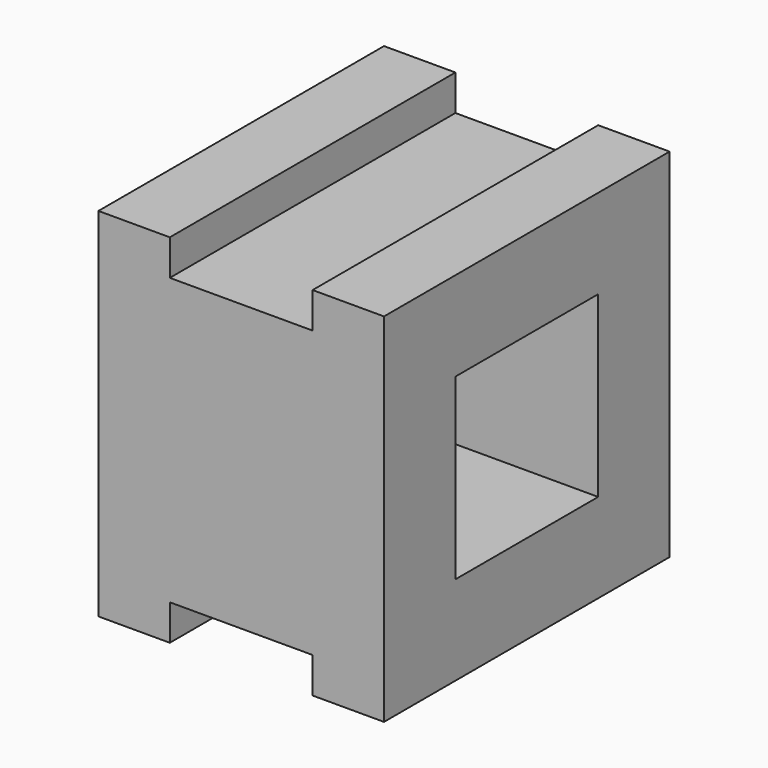
from build123d import *

# Parameters (mm, degrees)
F0_W          = 40
F0_H          = 50
F1_DEPTH      = 50
F2_W          = 25
F2_H          = 25
F3_DEPTH      = 139.9
F3_DEPTH_BACK = 82.6
F5_W          = 20
F5_H          = 50
F6_DEPTH      = 5
F7_START      = -45
F7_DEPTH      = 30.1


with BuildPart() as f1:
    # F0 (on Front) → F1 (new body)
    with BuildSketch(Plane.XZ):
        with Locations((20, 25)):
            Rectangle(F0_W, F0_H)
    extrude(amount=-F1_DEPTH)


with BuildPart() as f3:
    # F2 (on face) → F3 (new body, two sides)
    with BuildSketch(Plane.YZ.offset(40)) as f3_sk:
        with Locations((25, 25)):
            Rectangle(F2_W, F2_H)
    extrude(amount=-F3_DEPTH)
    extrude(f3_sk.sketch, amount=F3_DEPTH_BACK)


with BuildPart() as f1_1:
    add(f1.part)

    # F4: cut F3
    add(f3.part, mode=Mode.SUBTRACT)

    # F5 (on face) → F6 (cut)
    with BuildSketch(Plane.XY.offset(50)):
        with Locations((20, 25)):
            Rectangle(F5_W, F5_H)
    extrude(amount=-F6_DEPTH, mode=Mode.SUBTRACT)

    # F5 (on face) → F7 (cut)
    with BuildSketch(Plane.XY.offset(50).offset(F7_START)):
        with Locations((20, 25)):
            Rectangle(F5_W, F5_H)
    extrude(amount=-F7_DEPTH, mode=Mode.SUBTRACT)


solid = f1_1.part
